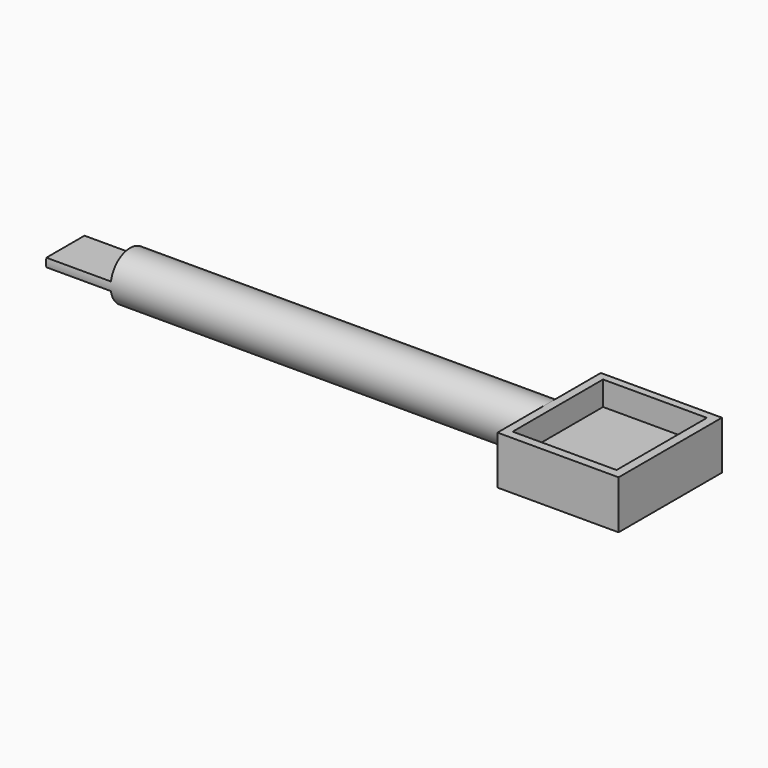
from build123d import *

# Parameters (mm, degrees)
F3_DEPTH = 8
F4_W     = 12.8698311746
F4_H     = 13.9981461689
F5_DEPTH = 3
F6_DEPTH = 3


with BuildPart() as f1:
    # F0 (on Front) → F1 (revolve)
    with BuildSketch(Plane.XZ):
        Polygon((30, 3), (0, 3), (-30, 3), (-30, 0), (0, 0), (30, 0), align=None)
    revolve(axis=Axis((15, 0, 0), (1, 0, 0)))

    # F2 (on face) → F3 (cut)
    with BuildSketch(Plane(origin=(-30, 0, 0), x_dir=(0, -1, 0), z_dir=(-1, 0, 0))):
        with BuildLine():
            Line((3.0024852457, -0.5085919919), (-3.0024852457, -0.5085919919))
            ThreePointArc((-3.0024852457, -0.5085919919), (0, -3.0452558948), (3.0024852457, -0.5085919919))
        make_face()
        with BuildLine():
            ThreePointArc((2.9974451145, 0.5375), (0, 3.0452558948), (-2.9974451145, 0.5375))
            Line((-2.9974451145, 0.5375), (2.9974451145, 0.5375))
        make_face()
    extrude(amount=-F3_DEPTH, mode=Mode.SUBTRACT)

    # F4 (on Top) → F5 (join)
    with BuildSketch(Plane.XY):
        Polygon((29.9149005125, 8), (29.9149005125, 0), (29.9149005125, -8), (44.9149005125, -8), (44.9149005125, 8), align=None)
        with Locations((37.3716000468, 0.0690473244)):
            Rectangle(F4_W, F4_H, mode=Mode.SUBTRACT)
        with Locations((37.3716000468, 0.0690473244)):
            Rectangle(F4_W, F4_H)
    extrude(amount=-F5_DEPTH)

    # F4 (on Top) → F6 (join)
    with BuildSketch(Plane.XY):
        Polygon((29.9149005125, 8), (29.9149005125, 0), (29.9149005125, -8), (44.9149005125, -8), (44.9149005125, 8), align=None)
        with Locations((37.3716000468, 0.0690473244)):
            Rectangle(F4_W, F4_H, mode=Mode.SUBTRACT)
    extrude(amount=F6_DEPTH)


solid = f1.part
